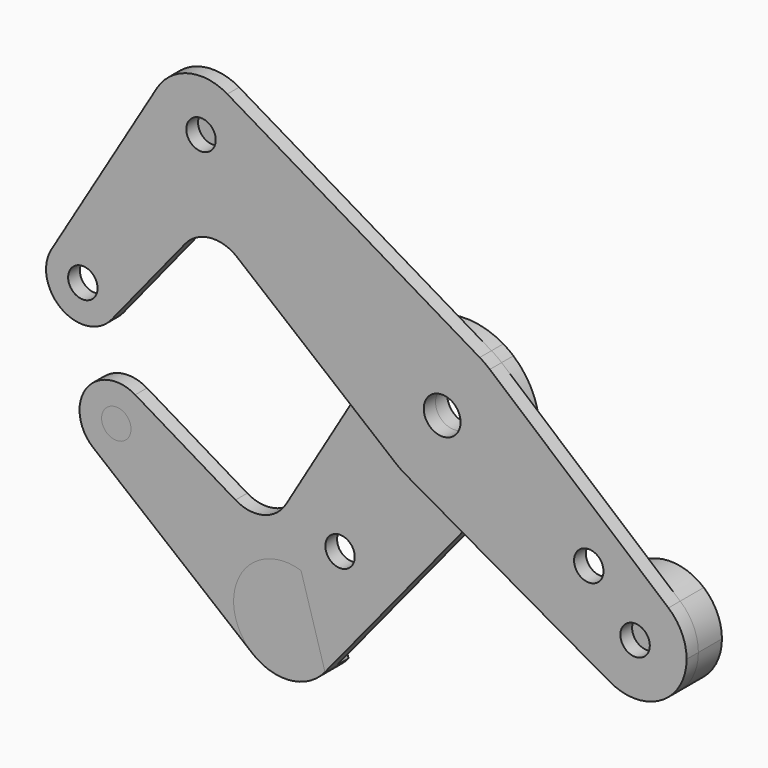
from build123d import *

# Parameters (mm, degrees)
F0_R     = 3.175
F0_R_2   = 3.9751
F1_DEPTH = 3.175
F2_DEPTH = 3.175
F3_DEPTH = 6.35


with BuildPart() as f1:
    # F0 (on Front) → F1 (new body)
    with BuildSketch(Plane.XZ):
        with BuildLine():
            ThreePointArc((-46.3493534686, 45.9708783013), (-54.7484486293, 47.1875056253), (-61.5568739456, 42.1209164099))
            ThreePointArc((-61.5568739456, 42.1209164099), (-54.9811913991, 25.7038240558), (-40.908726953, 36.4148588671))
            ThreePointArc((-40.908726953, 36.4148588671), (-42.3641997099, 41.9129931941), (-46.3493534686, 45.9708783013))
        make_face()
        with Locations((-52.021226953, 36.4148588671)):
            Circle(F0_R, mode=Mode.SUBTRACT)
        with BuildLine():
            ThreePointArc((-84.3228045832, 4.0757553877), (-75.3973678413, 7.6507391509), (-69.5741281599, 0))
            ThreePointArc((-69.5741281599, 0), (-70.031449753, -2.6553412683), (-71.3507170735, -5.004705869))
            Line((-71.3507170735, -5.004705869), (-55.4583719126, 14.5591462439))
            ThreePointArc((-55.4583719126, 14.5591462439), (-50.0923114236, 17.4558022885), (-44.252824382, 15.6992111283))
            Line((-44.252824382, 15.6992111283), (-20.6205567973, -3.6389217878))
            Line((-20.6205567973, -3.6389217878), (-13.6514563346, 8.1026764062))
            ThreePointArc((-13.6514563346, 8.1026764062), (-3.9235799147, 15.3824947799), (8.1026764062, 13.6514563346))
            Line((8.1026764062, 13.6514563346), (-46.3493534686, 45.9708783013))
            ThreePointArc((-46.3493534686, 45.9708783013), (-42.3641997099, 41.9129931941), (-40.908726953, 36.4148588671))
            ThreePointArc((-40.908726953, 36.4148588671), (-54.9811913991, 25.7038240558), (-61.5568739456, 42.1209164099))
            Line((-61.5568739456, 42.1209164099), (-84.3228045832, 4.0757553877))
        make_face()
        with BuildLine():
            ThreePointArc((-71.3507170735, -5.004705869), (-70.031449753, -2.6553412683), (-69.5741281599, 0))
            ThreePointArc((-69.5741281599, 0), (-75.3973678413, 7.6507391509), (-84.3228045832, 4.0757553877))
            ThreePointArc((-84.3228045832, 4.0757553877), (-82.0634855183, -6.5026533691), (-71.3507170735, -5.004705869))
        make_face()
        with Locations((-77.5116281599, 0)):
            Circle(F0_R, mode=Mode.SUBTRACT)
        with BuildLine():
            ThreePointArc((10.2828673712, 12.0945551231), (9.2256728938, 12.9190783207), (8.1026764062, 13.6514563346))
            ThreePointArc((8.1026764062, 13.6514563346), (-3.9235799147, 15.3824947799), (-13.6514563346, 8.1026764062))
            ThreePointArc((-13.6514563346, 8.1026764062), (-15.6334389962, -2.7588421758), (-10.053472417, -12.2858991271))
            ThreePointArc((-10.053472417, -12.2858991271), (-8.9809506531, -13.0903838892), (-7.8443723578, -13.8015016325))
            ThreePointArc((-7.8443723578, -13.8015016325), (2.9058081081, -15.6067903247), (12.2858991271, -10.053472417))
            ThreePointArc((12.2858991271, -10.053472417), (14.9508239513, -5.3374608363), (15.875, 0))
            ThreePointArc((15.875, 0), (14.4093050582, 6.6623984226), (10.2828673712, 12.0945551231))
        make_face()
        Circle(F0_R_2, mode=Mode.SUBTRACT)
        with BuildLine():
            Line((-13.6514563346, 8.1026764062), (-20.6205567973, -3.6389217878))
            Line((-20.6205567973, -3.6389217878), (-10.053472417, -12.2858991271))
            ThreePointArc((-10.053472417, -12.2858991271), (-15.6334389962, -2.7588421758), (-13.6514563346, 8.1026764062))
        make_face()
        with BuildLine():
            ThreePointArc((12.2858991271, -10.053472417), (2.9058081081, -15.6067903247), (-7.8443723578, -13.8015016325))
            Line((-7.8443723578, -13.8015016325), (3.8021703794, -20.4210579927))
            Line((3.8021703794, -20.4210579927), (12.2858991271, -10.053472417))
        make_face()
        with BuildLine():
            Line((48.8149887222, -20.6656985075), (10.2828673712, 12.0945551231))
            ThreePointArc((10.2828673712, 12.0945551231), (14.4093050582, 6.6623984226), (15.875, 0))
            ThreePointArc((15.875, 0), (14.9508239513, -5.3374608363), (12.2858991271, -10.053472417))
            Line((12.2858991271, -10.053472417), (3.8021703794, -20.4210579927))
            Line((3.8021703794, -20.4210579927), (36.1259209119, -38.7929382364))
            ThreePointArc((36.1259209119, -38.7929382364), (32.5132668456, -22.7592867919), (48.8149887222, -20.6656985075))
        make_face()
        with Locations((31.630088017, -18.2654802039)):
            Circle(F0_R, mode=Mode.SUBTRACT)
        with BuildLine():
            ThreePointArc((52.7294815624, -29.1318870937), (51.7034951031, -24.4682081979), (48.8149887222, -20.6656985075))
            ThreePointArc((48.8149887222, -20.6656985075), (32.5132668456, -22.7592867919), (36.1259209119, -38.7929382364))
            ThreePointArc((36.1259209119, -38.7929382364), (47.2057311887, -38.7367574137), (52.7294815624, -29.1318870937))
        make_face()
        with Locations((41.6169815624, -29.1318870937)):
            Circle(F0_R, mode=Mode.SUBTRACT)
    extrude(amount=F1_DEPTH)


with BuildPart() as f2:
    # F0 (on Front) → F2 (new body)
    with BuildSketch(Plane.XZ):
        with BuildLine():
            Line((-10.053472417, -12.2858991271), (-20.6205567973, -3.6389217878))
            Line((-20.6205567973, -3.6389217878), (-36.206279503, -29.8978765198))
            ThreePointArc((-36.206279503, -29.8978765198), (-41.0917965274, -33.5471154563), (-47.1252054317, -32.6621304811))
            Line((-47.1252054317, -32.6621304811), (-68.7539623464, -19.7196493227))
            ThreePointArc((-68.7539623464, -19.7196493227), (-65.9248203909, -22.6159440198), (-64.8922177341, -26.530825746))
            ThreePointArc((-64.8922177341, -26.530825746), (-69.4180426753, -33.6977204392), (-77.8344236032, -32.6917368324))
            Line((-77.8344236032, -32.6917368324), (-43.4214470837, -60.6465024739))
            ThreePointArc((-43.4214470837, -60.6465024739), (-46.1761535956, -46.7104095514), (-32.978986563, -41.4532357645))
            ThreePointArc((-32.978986563, -41.4532357645), (-27.4240639292, -45.4902804185), (-25.3023588671, -52.021226953))
            ThreePointArc((-25.3023588671, -52.021226953), (-25.9492821012, -55.7574495383), (-27.8147294781, -59.0586576448))
            Line((-27.8147294781, -59.0586576448), (3.8021703794, -20.4210579927))
            Line((3.8021703794, -20.4210579927), (-7.8443723578, -13.8015016325))
            ThreePointArc((-7.8443723578, -13.8015016325), (-8.9809506531, -13.0903838892), (-10.053472417, -12.2858991271))
        make_face()
        with Locations((-24.5727467635, -35.1039239479)):
            Circle(F0_R, mode=Mode.SUBTRACT)
        with BuildLine():
            ThreePointArc((-43.4214470837, -60.6465024739), (-35.2900672565, -63.0766554875), (-27.8147294781, -59.0586576448))
            Line((-27.8147294781, -59.0586576448), (-32.978986563, -41.4532357645))
            ThreePointArc((-32.978986563, -41.4532357645), (-46.1761535956, -46.7104095514), (-43.4214470837, -60.6465024739))
        make_face()
        with Locations((-36.4148588671, -52.021226953)):
            Circle(F0_R, mode=Mode.SUBTRACT)
        with BuildLine():
            ThreePointArc((-64.8922177341, -26.530825746), (-65.9248203909, -22.6159440198), (-68.7539623464, -19.7196493227))
            ThreePointArc((-68.7539623464, -19.7196493227), (-79.3323711033, -21.9789683876), (-77.8344236032, -32.6917368324))
            ThreePointArc((-77.8344236032, -32.6917368324), (-69.4180426753, -33.6977204392), (-64.8922177341, -26.530825746))
        make_face()
        with Locations((-72.8297177341, -26.530825746)):
            Circle(F0_R, mode=Mode.SUBTRACT)
        with BuildLine():
            ThreePointArc((10.2828673712, 12.0945551231), (9.2256728938, 12.9190783207), (8.1026764062, 13.6514563346))
            ThreePointArc((8.1026764062, 13.6514563346), (-3.9235799147, 15.3824947799), (-13.6514563346, 8.1026764062))
            ThreePointArc((-13.6514563346, 8.1026764062), (-15.6334389962, -2.7588421758), (-10.053472417, -12.2858991271))
            ThreePointArc((-10.053472417, -12.2858991271), (-8.9809506531, -13.0903838892), (-7.8443723578, -13.8015016325))
            ThreePointArc((-7.8443723578, -13.8015016325), (2.9058081081, -15.6067903247), (12.2858991271, -10.053472417))
            ThreePointArc((12.2858991271, -10.053472417), (14.9508239513, -5.3374608363), (15.875, 0))
            ThreePointArc((15.875, 0), (14.4093050582, 6.6623984226), (10.2828673712, 12.0945551231))
        make_face()
        Circle(F0_R_2, mode=Mode.SUBTRACT)
        with BuildLine():
            ThreePointArc((12.2858991271, -10.053472417), (2.9058081081, -15.6067903247), (-7.8443723578, -13.8015016325))
            Line((-7.8443723578, -13.8015016325), (3.8021703794, -20.4210579927))
            Line((3.8021703794, -20.4210579927), (12.2858991271, -10.053472417))
        make_face()
        with BuildLine():
            Line((-13.6514563346, 8.1026764062), (-20.6205567973, -3.6389217878))
            Line((-20.6205567973, -3.6389217878), (-10.053472417, -12.2858991271))
            ThreePointArc((-10.053472417, -12.2858991271), (-15.6334389962, -2.7588421758), (-13.6514563346, 8.1026764062))
        make_face()
        with BuildLine():
            Line((-32.978986563, -41.4532357645), (-27.8147294781, -59.0586576448))
            ThreePointArc((-27.8147294781, -59.0586576448), (-25.9492821012, -55.7574495383), (-25.3023588671, -52.021226953))
            ThreePointArc((-25.3023588671, -52.021226953), (-27.4240639292, -45.4902804185), (-32.978986563, -41.4532357645))
        make_face()
    extrude(amount=-F2_DEPTH)


with BuildPart() as f3:
    # F0 (on Front) → F3 (new body)
    with BuildSketch(Plane.XZ):
        with BuildLine():
            ThreePointArc((-43.4214470837, -60.6465024739), (-35.2900672565, -63.0766554875), (-27.8147294781, -59.0586576448))
            Line((-27.8147294781, -59.0586576448), (-32.978986563, -41.4532357645))
            ThreePointArc((-32.978986563, -41.4532357645), (-46.1761535956, -46.7104095514), (-43.4214470837, -60.6465024739))
        make_face()
        with Locations((-36.4148588671, -52.021226953)):
            Circle(F0_R, mode=Mode.SUBTRACT)
        with Locations((-36.4148588671, -52.021226953)):
            Circle(F0_R)
    extrude(amount=-F3_DEPTH)


with BuildPart() as f3b:
    # F0 (on Front) → F3, piece 2 (new body)
    with BuildSketch(Plane.XZ):
        with Locations((-72.8297177341, -26.530825746)):
            Circle(F0_R)
    extrude(amount=-F3_DEPTH)


with BuildPart() as f3c:
    # F0 (on Front) → F3, piece 3 (new body)
    with BuildSketch(Plane.XZ):
        with BuildLine():
            ThreePointArc((52.7294815624, -29.1318870937), (51.7034951031, -24.4682081979), (48.8149887222, -20.6656985075))
            ThreePointArc((48.8149887222, -20.6656985075), (32.5132668456, -22.7592867919), (36.1259209119, -38.7929382364))
            ThreePointArc((36.1259209119, -38.7929382364), (47.2057311887, -38.7367574137), (52.7294815624, -29.1318870937))
        make_face()
        with Locations((41.6169815624, -29.1318870937)):
            Circle(F0_R, mode=Mode.SUBTRACT)
        with Locations((41.6169815624, -29.1318870937)):
            Circle(F0_R)
    extrude(amount=-F3_DEPTH)


with BuildPart() as f3d:
    # F0 (on Front) → F3, piece 4 (new body)
    with BuildSketch(Plane.XZ):
        with Locations((-52.021226953, 36.4148588671)):
            Circle(F0_R)
    extrude(amount=-F3_DEPTH)


solid = Compound([f1.part, f2.part, f3.part, f3b.part, f3c.part, f3d.part])
